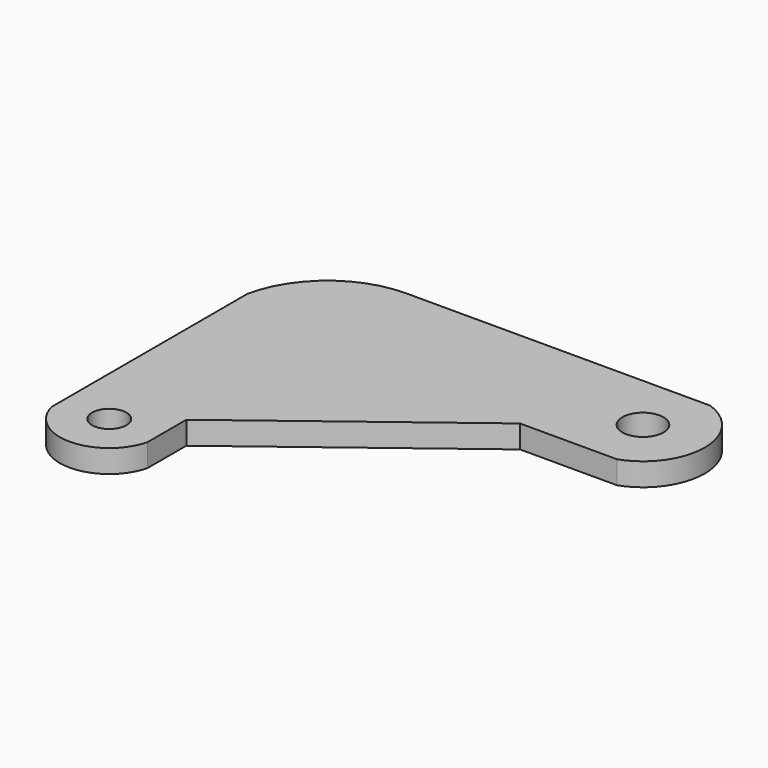
from build123d import *

# Parameters (mm, degrees)
F1_DEPTH = 6.35


with BuildPart() as f1:
    # F0 (on Top) → F1 (new body)
    with BuildSketch(Plane.XY):
        with BuildLine():
            ThreePointArc((55.493283, 45.449305), (47.948553, 50.866655), (45.226971, 41.986136))
            ThreePointArc((45.226971, 41.986136), (51.603458, 40.031956), (55.493283, 45.449305))
        make_face()
        with BuildLine():
            ThreePointArc((-37.498804, -24.616662), (-37.74852, -23.095151), (-38.471466, -21.733277))
            ThreePointArc((-38.471466, -21.733277), (-46.769336, -26.138173), (-37.498804, -24.616662))
        make_face()
        with BuildLine():
            Line((-28.971344, -14.500858), (-28.971344, -4.430655))
            ThreePointArc((-28.971344, -4.430655), (-22.235377, 19.09339), (0, 29.308181))
            Line((0, 29.308181), (28.573883, 29.308181))
            Line((28.573883, 29.308181), (55.546515, 29.308181))
            ThreePointArc((55.546515, 29.308181), (66.917612, 45.449305), (55.546515, 61.590429))
            Line((55.546515, 61.590429), (-28.780576, 61.590429))
            ThreePointArc((-28.780576, 61.590429), (-45.973205, 55.521697), (-55.546511, 40.005002))
            Line((-55.546511, 40.005002), (-55.546511, -22.448849))
            Line((-55.546511, -22.448849), (-55.546511, -27.999751))
            ThreePointArc((-55.546511, -27.999751), (-42.258928, -38.32816), (-28.971344, -27.999751))
            Line((-28.971344, -27.999751), (-28.971344, -20.434208))
            Line((-28.971344, -20.434208), (-28.971344, -14.500858))
        make_face()
        with BuildLine():
            ThreePointArc((-37.498804, -24.616662), (-46.769336, -26.138173), (-38.471466, -21.733277))
            ThreePointArc((-38.471466, -21.733277), (-37.74852, -23.095151), (-37.498804, -24.616662))
        make_face(mode=Mode.SUBTRACT)
        with BuildLine():
            ThreePointArc((55.493283, 45.449305), (51.603458, 40.031956), (45.226971, 41.986136))
            ThreePointArc((45.226971, 41.986136), (47.948553, 50.866655), (55.493283, 45.449305))
        make_face(mode=Mode.SUBTRACT)
        with BuildLine():
            ThreePointArc((0, 29.308181), (-22.235377, 19.09339), (-28.971344, -4.430655))
            Line((-28.971344, -4.430655), (-28.971344, -14.500858))
            Line((-28.971344, -14.500858), (28.573883, 29.308181))
            Line((28.573883, 29.308181), (0, 29.308181))
        make_face()
    extrude(amount=F1_DEPTH)


solid = f1.part
